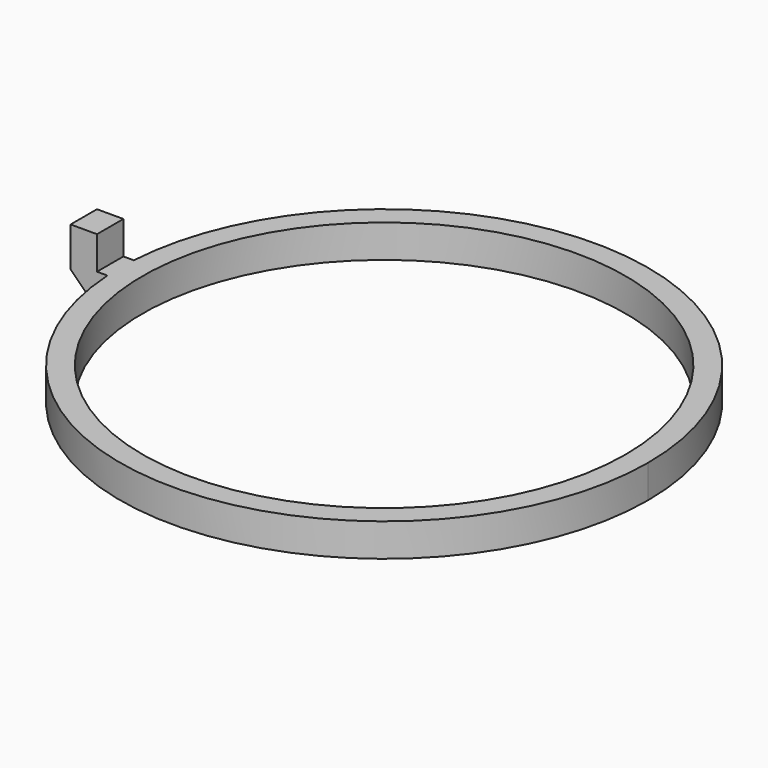
from build123d import *

# Parameters (mm, degrees)
F0_R     = 20
F0_R_2   = 18.3
F1_DEPTH = 2.5
F3_DEPTH = 1.25


with BuildPart() as f1:
    # F0 (on Top) → F1 (new body)
    with BuildSketch(Plane.XY):
        Circle(F0_R)
        Circle(F0_R_2, mode=Mode.SUBTRACT)
    extrude(amount=F1_DEPTH)

    # F2 (on Front) → F3 (join, symmetric)
    with BuildSketch(Plane.XZ):
        Polygon((-20.75, 0), (-19.25, 0), (-19.25, 2.5), (-20.75, 2.5), (-20.75, 5), (-22.75, 5), (-22.75, 2), align=None)
    extrude(amount=F3_DEPTH, both=True)


solid = f1.part
